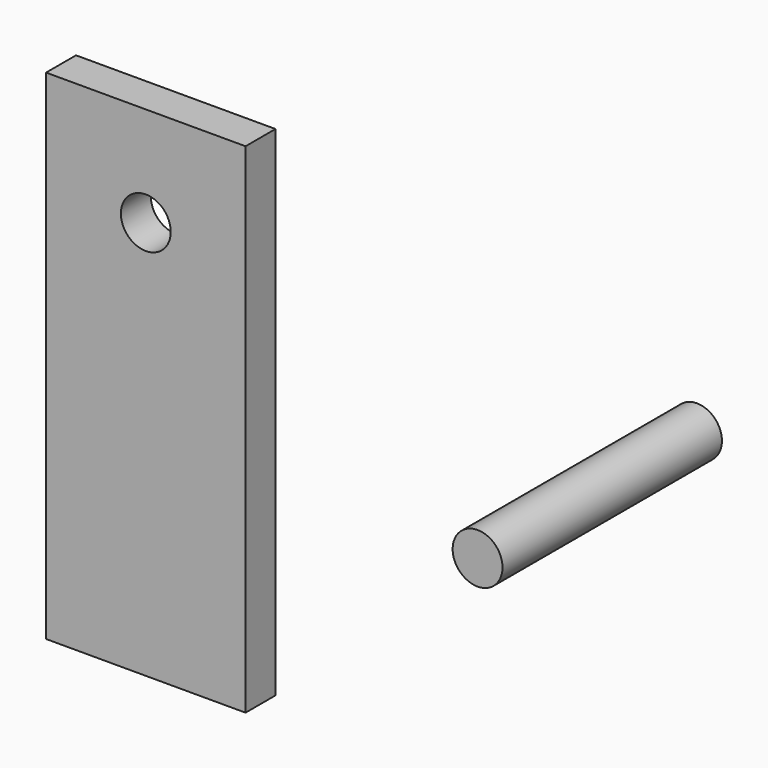
from build123d import *

# Parameters (mm, degrees)
F0_W     = 25.4
F0_H     = 63.5
F0_R     = 3.175
F1_DEPTH = 4.7625
F2_R     = 3.175
F3_DEPTH = 34.925


with BuildPart() as f1:
    # F0 (on Front) → F1 (new body)
    with BuildSketch(Plane.XZ):
        with Locations((-42.439207, 7.809821)):
            Rectangle(F0_W, F0_H)
        with Locations((-42.439207, 26.859821)):
            Circle(F0_R, mode=Mode.SUBTRACT)
    extrude(amount=F1_DEPTH)


with BuildPart() as f3:
    # F2 (on Front) → F3 (new body)
    with BuildSketch(Plane.XZ):
        with Locations((23.937033, 23.088869)):
            Circle(F2_R)
    extrude(amount=F3_DEPTH)


solid = Compound([f1.part, f3.part])
